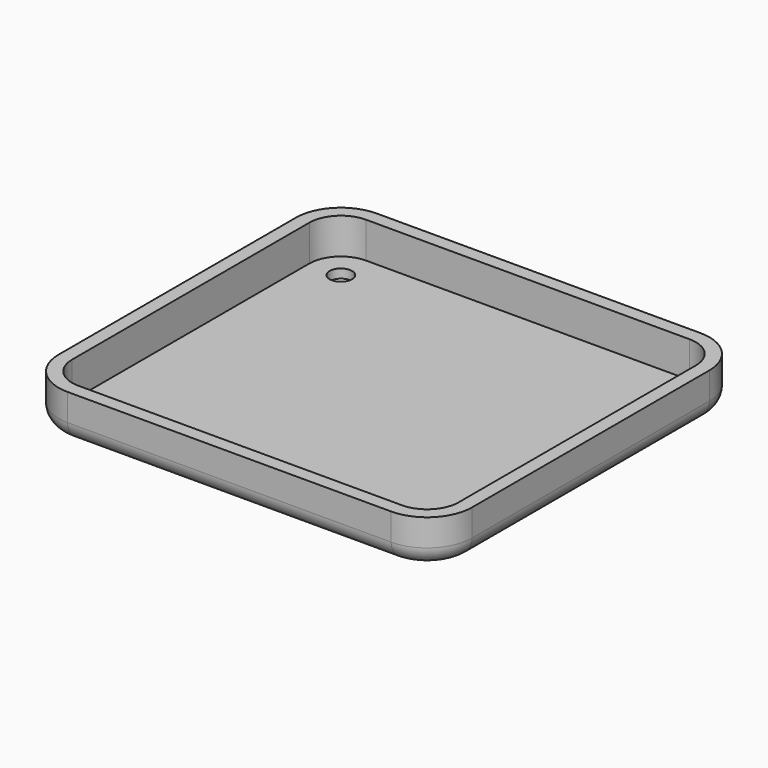
from build123d import *

# Parameters (mm, degrees)
F1_DEPTH = 5
F3_DEPTH = 4
F4_R     = 2
F5_R     = 1.25
F6_DEPTH = 5.001


with BuildPart() as f1:
    # F0 (on Top) → F1 (new body)
    with BuildSketch(Plane.XY):
        with BuildLine():
            Line((-18, -21.5), (18, -21.5))
            ThreePointArc((18, -21.5), (21.535534, -20.035534), (23, -16.5))
            Line((23, -16.5), (23, 16.5))
            ThreePointArc((23, 16.5), (21.535534, 20.035534), (18, 21.5))
            Line((18, 21.5), (-18, 21.5))
            ThreePointArc((-18, 21.5), (-21.535534, 20.035534), (-23, 16.5))
            Line((-23, 16.5), (-23, -16.5))
            ThreePointArc((-23, -16.5), (-21.535534, -20.035534), (-18, -21.5))
        make_face()
    extrude(amount=F1_DEPTH)

    # F2 (on face) → F3 (cut)
    with BuildSketch(Plane.XY.offset(5)):
        with BuildLine():
            Line((-18, -20), (18, -20))
            ThreePointArc((18, -20), (20.474874, -18.974874), (21.5, -16.5))
            Line((21.5, -16.5), (21.5, 16.5))
            ThreePointArc((21.5, 16.5), (20.474874, 18.974874), (18, 20))
            Line((18, 20), (-18, 20))
            ThreePointArc((-18, 20), (-20.474874, 18.974874), (-21.5, 16.5))
            Line((-21.5, 16.5), (-21.5, -16.5))
            ThreePointArc((-21.5, -16.5), (-20.474874, -18.974874), (-18, -20))
        make_face()
    extrude(amount=-F3_DEPTH, mode=Mode.SUBTRACT)

    # F4
    f4_edges = [f1.edges().sort_by_distance(p)[0] for p in [
        (-21.535534, -20.035534, 0),
        (0, -21.5, 0),
        (21.535534, -20.035534, 0),
        (23, 0, 0),
        (21.535534, 20.035534, 0),
        (0, 21.5, 0),
        (-21.535534, 20.035534, 0),
        (-23, 0, 0),
    ]]
    fillet(f4_edges, radius=F4_R)

    # F5 (on face) → F6 (cut, through all)
    with BuildSketch(Plane(origin=(0, 0, 0), x_dir=(1, 0, 0), z_dir=(0, 0, -1))):
        with Locations((-18, 16.5)):
            Circle(F5_R)
        with Locations((18, 16.5)):
            Circle(F5_R)
        with Locations((18, -16.5)):
            Circle(F5_R)
        with Locations((-18, -16.5)):
            Circle(F5_R)
    extrude(amount=-F6_DEPTH, mode=Mode.SUBTRACT)


solid = f1.part
